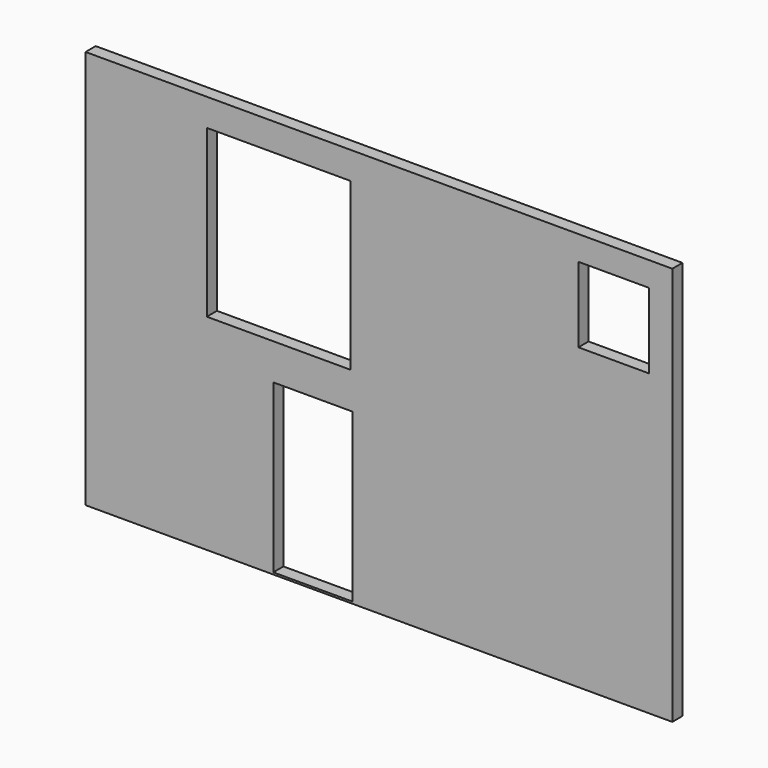
from build123d import *

# Parameters (mm, degrees)
F0_W     = 7620
F0_H     = 5181.6
F1_DEPTH = 165.1
F2_W     = 1866.9
F2_H     = 2159
F3_DEPTH = 165.101
F4_W     = 914.4
F4_H     = 977.9
F5_DEPTH = 165.101
F6_W     = 1028.7
F6_H     = 2171.7
F7_DEPTH = 165.101


with BuildPart() as f1:
    # F0 (on Front) → F1 (new body)
    with BuildSketch(Plane.XZ):
        with Locations((-1242.408483, 155.134192)):
            Rectangle(F0_W, F0_H)
    extrude(amount=F1_DEPTH)

    # F2 (on face) → F3 (cut, through all)
    with BuildSketch(Plane.XZ.offset(165.1)):
        with Locations((-2544.158483, 1310.834192)):
            Rectangle(F2_W, F2_H)
    extrude(amount=-F3_DEPTH, mode=Mode.SUBTRACT)

    # F4 (on face) → F5 (cut, through all)
    with BuildSketch(Plane.XZ.offset(165.1)):
        with Locations((1805.591517, 1939.484192)):
            Rectangle(F4_W, F4_H)
    extrude(amount=-F5_DEPTH, mode=Mode.SUBTRACT)

    # F6 (on face) → F7 (cut, through all)
    with BuildSketch(Plane.XZ.offset(165.1)):
        with Locations((-2099.658483, -1324.415808)):
            Rectangle(F6_W, F6_H)
    extrude(amount=-F7_DEPTH, mode=Mode.SUBTRACT)


solid = f1.part
